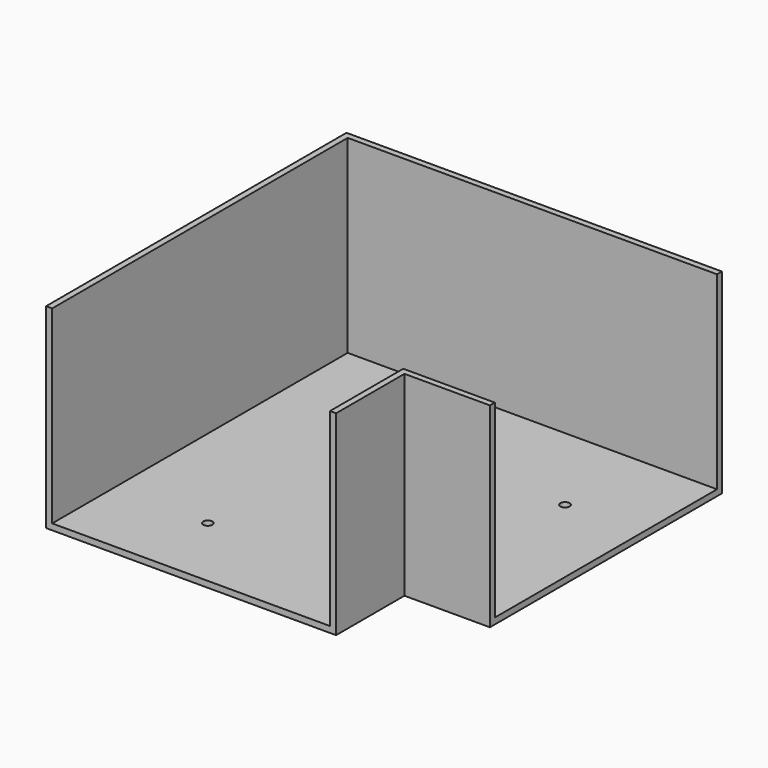
from build123d import *

# Parameters (mm, degrees)
SKETCH_R     = 1.5
PAD_DEPTH    = 2
PAD001_DEPTH = 64


with BuildPart() as part:
    # Sketch → Pad (new body)
    with BuildSketch(Plane.XY):
        Polygon((0, 0), (30, 0), (30, 91), (-91, 91), (-91, -30), (0, -30), align=None)
        with Locations((-60, -5)):
            Circle(SKETCH_R, mode=Mode.SUBTRACT)
        with Locations((5, 60)):
            Circle(SKETCH_R, mode=Mode.SUBTRACT)
    extrude(amount=PAD_DEPTH)

    # Sketch001 (on Face9 of Pad) → Pad001 (join)
    with BuildSketch(Plane(origin=(0, 0, 0), x_dir=(1, 0, 0), z_dir=(0, 0, -1))):
        Polygon((-91, 30), (-93, 30), (-93, -93), (-91, -93), (30, -93), (30, -91), (-91, -91), align=None)
        Polygon((0, 30), (0, 0), (30, 0), (30, 2), (2, 2), (2, 30), align=None)
    extrude(amount=-PAD001_DEPTH)


solid = part.part
